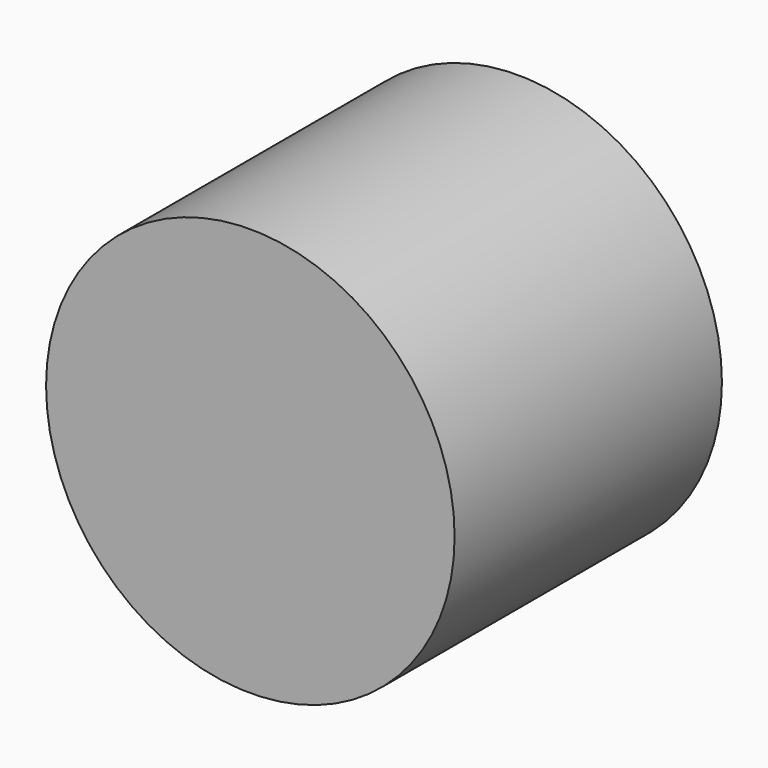
from build123d import *

# Parameters (mm, degrees)
F1_R     = 38.121738
F2_DEPTH = 62.363297


with BuildPart() as f2:
    # F1 (on face) → F2 (new body)
    with BuildSketch(Plane.XZ):
        with Locations((-38.121738, 0)):
            Circle(F1_R)
    extrude(amount=F2_DEPTH)


solid = f2.part
